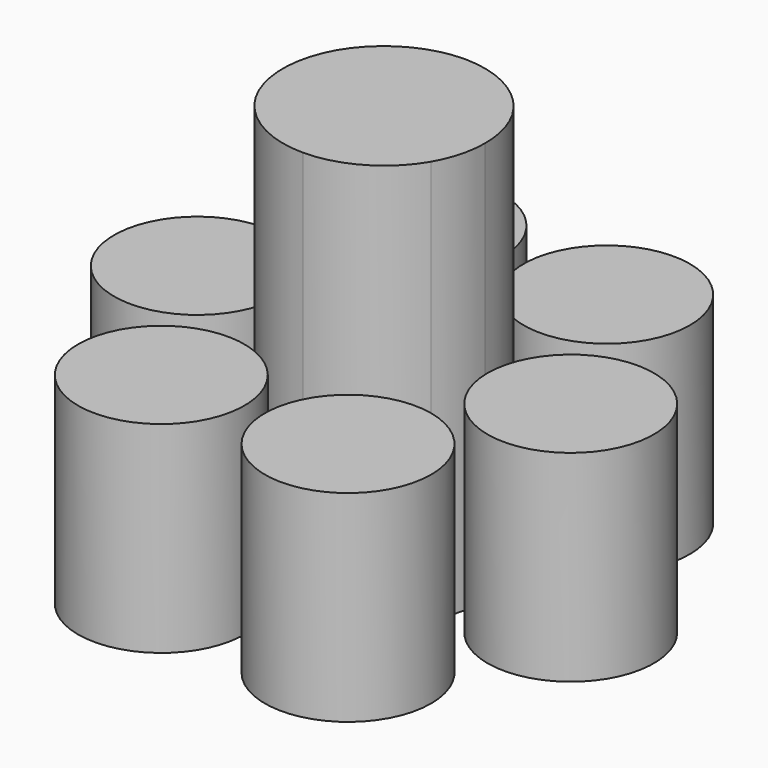
from build123d import *

# Parameters (mm, degrees)
F1_DEPTH = 800
F0_R     = 165.1
F2_DEPTH = 400


with BuildPart() as f1:
    # F0 (on Top) → F1 (new body)
    with BuildSketch(Plane.XY):
        with BuildLine():
            ThreePointArc((176.5767080849, -100.5530017549), (196.431447435, -52.0089074926), (203.2, 0))
            ThreePointArc((203.2, 0), (196.431447435, 52.0089074926), (176.5767080849, 100.5530017549))
            ThreePointArc((176.5767080849, 100.5530017549), (102.8069000959, 173.8859497632), (2.4138001919, 201.1060035097))
            ThreePointArc((2.4138001919, 201.1060035097), (-97.9792997122, 173.8859497632), (-171.7491077011, 100.5530017549))
            ThreePointArc((-171.7491077011, 100.5530017549), (-198.3723996162, 0), (-171.7491077011, -100.5530017549))
            ThreePointArc((-171.7491077011, -100.5530017549), (-97.9792997122, -173.8859497632), (2.4138001919, -201.1060035097))
            ThreePointArc((2.4138001919, -201.1060035097), (102.8069000959, -173.8859497632), (176.5767080849, -100.5530017549))
        make_face()
    extrude(amount=F1_DEPTH)


with BuildPart() as f2:
    # F0 (on Top) → F2 (new body)
    with BuildSketch(Plane.XY):
        with Locations((-368.3, 0)):
            Circle(F0_R)
    extrude(amount=F2_DEPTH)


with BuildPart() as f2b:
    # F0 (on Top) → F2, piece 2 (new body)
    with BuildSketch(Plane.XY):
        with BuildLine():
            ThreePointArc((-17.8430999041, 321.0475684996), (-325.9238939328, 403.5975687353), (-100.3931003754, 178.0667740627))
            ThreePointArc((-100.3931003754, 178.0667740627), (-39.9623058753, 238.4975682639), (-17.8430999041, 321.0475684996))
        make_face()
    extrude(amount=F2_DEPTH)


with BuildPart() as f2c:
    # F0 (on Top) → F2, piece 3 (new body)
    with BuildSketch(Plane.XY):
        with BuildLine():
            ThreePointArc((352.8707002878, 321.0475684996), (105.2207002131, 464.0283626213), (105.2207004372, 178.0667742486))
            ThreePointArc((105.2207004372, 178.0667742486), (270.3207003625, 178.0667743779), (352.8707002878, 321.0475684996))
        make_face()
    extrude(amount=F2_DEPTH)


with BuildPart() as f2d:
    # F0 (on Top) → F2, piece 4 (new body)
    with BuildSketch(Plane.XY):
        with BuildLine():
            ThreePointArc((538.2276003838, 0), (373.1276003838, 165.1), (208.0276003838, 0))
            ThreePointArc((208.0276003838, 0), (373.1276003838, -165.1), (538.2276003838, 0))
        make_face()
    extrude(amount=F2_DEPTH)


with BuildPart() as f2e:
    # F0 (on Top) → F2, piece 5 (new body)
    with BuildSketch(Plane.XY):
        with BuildLine():
            ThreePointArc((352.8707002878, -321.0475684996), (270.3207004679, -178.0667744388), (105.2207006479, -178.0667741269))
            ThreePointArc((105.2207006479, -178.0667741269), (105.2207001078, -464.0283625605), (352.8707002878, -321.0475684996))
        make_face()
    extrude(amount=F2_DEPTH)


with BuildPart() as f2f:
    # F0 (on Top) → F2, piece 6 (new body)
    with BuildSketch(Plane.XY):
        with BuildLine():
            ThreePointArc((-17.8430999041, -321.0475684996), (-39.9623058151, -238.4975683682), (-100.3931001668, -178.0667741831))
            ThreePointArc((-100.3931001668, -178.0667741831), (-325.923893993, -403.597568631), (-17.8430999041, -321.0475684996))
        make_face()
    extrude(amount=F2_DEPTH)


solid = Compound([f1.part, f2.part, f2b.part, f2c.part, f2d.part, f2e.part, f2f.part])
